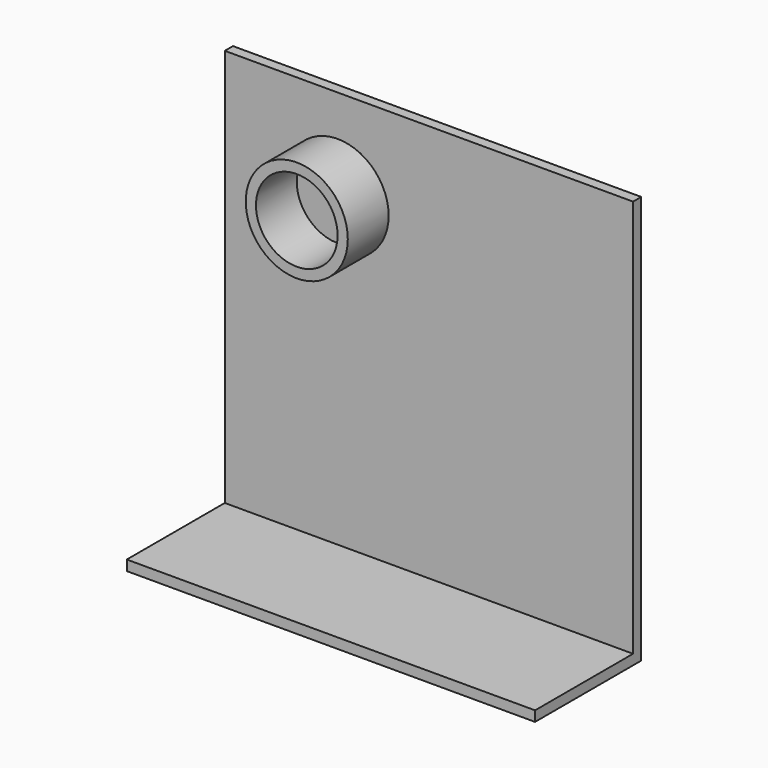
from build123d import *

# Parameters (mm, degrees)
F0_W     = 200
F0_H     = 200
F1_DEPTH = 5
F2_W     = 200
F2_H     = 5
F3_DEPTH = 60
F4_R     = 25
F5_DEPTH = 25
F6_R     = 20
F7_DEPTH = 25


with BuildPart() as f1:
    # F0 (on Front) → F1 (new body)
    with BuildSketch(Plane.XZ):
        with Locations((44.733446, 57.222639)):
            Rectangle(F0_W, F0_H)
    extrude(amount=F1_DEPTH)

    # F2 (on face) → F3 (join)
    with BuildSketch(Plane.XZ.offset(5)):
        with Locations((44.733446, -40.277361)):
            Rectangle(F2_W, F2_H)
    extrude(amount=F3_DEPTH)

    # F4 (on face) → F5 (join)
    with BuildSketch(Plane.XZ.offset(5)):
        with Locations((0, 112.222639)):
            Circle(F4_R)
    extrude(amount=F5_DEPTH)

    # F6 (on face) → F7 (cut)
    with BuildSketch(Plane.XZ.offset(30)):
        with Locations((0, 112.222639)):
            Circle(F6_R)
    extrude(amount=-F7_DEPTH, mode=Mode.SUBTRACT)


solid = f1.part
